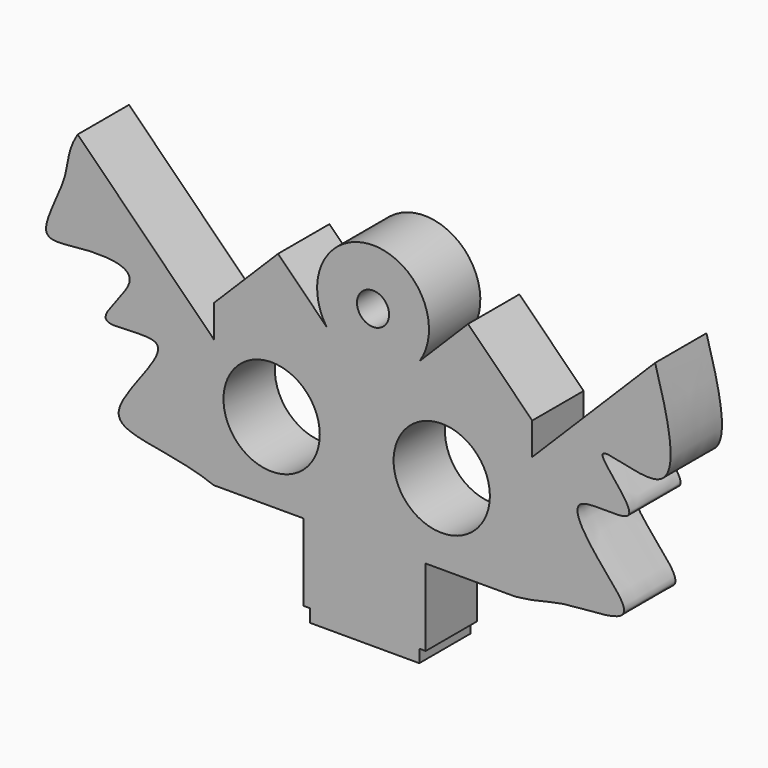
from build123d import *

# Parameters (mm, degrees)
F0_R     = 19.05
F0_R_2   = 6.35
F1_DEPTH = 25.4


with BuildPart() as f1:
    # F0 (on Front) → F1 (new body)
    with BuildSketch(Plane.XZ):
        with BuildLine():
            Line((-31.1403993189, -19.2889107381), (-18.4403993189, -19.2889107381))
            Line((-18.4403993189, -19.2889107381), (-18.4403993189, -49.7689107381))
            Line((-18.4403993189, -49.7689107381), (-15.9003993189, -49.7689107381))
            Line((-15.9003993189, -49.7689107381), (-15.9003993189, -54.8489107381))
            Line((-15.9003993189, -54.8489107381), (27.2796006811, -54.8489107381))
            Line((27.2796006811, -54.8489107381), (27.2796006811, -49.7689107381))
            Line((27.2796006811, -49.7689107381), (29.8196006811, -49.7689107381))
            Line((29.8196006811, -49.7689107381), (29.8196006811, -19.2889107381))
            Line((29.8196006811, -19.2889107381), (36.1696006811, -19.2889107381))
            Line((36.1696006811, -19.2889107381), (65.3796006811, -19.2889107381))
            add(Edge.make_bspline(
                [(65.3796006811, -19.2889107381), (74.1711477056, -18.4765076882), (82.4192640819, -14.20656882), (116.8758285004, -15.0036093337), (97.2985200049, 3.7811899612), (82.3009794217, 26.9441888583), (123.3015282631, 17.1872348013), (86.4868084349, 50.4668270695), (134.1376124005, 28.9247435809), (126.009155263, 61.4430774902), (120.6114375598, 80.1416121068)],
                knots=[0, 0, 0, 0, 0.1198813127, 0.2438537091, 0.3587527346, 0.4691736005, 0.5838440992, 0.7018104794, 0.8246059311, 0.9870158859, 0.9870158859, 0.9870158859, 0.9870158859], degree=3))
            Line((120.6114375598, 80.1416121068), (71.9809147149, 31.5110892619))
            Line((71.9809147149, 31.5110892619), (71.9809147149, 44.2110892619))
            Line((71.9809147149, 44.2110892619), (46.5809147149, 69.6110892619))
            Line((46.5809147149, 69.6110892619), (27.4656911399, 50.4958656869))
            ThreePointArc((27.4656911399, 50.4958656869), (8.990257698, 84.8214218311), (-9.4851757439, 50.4958656869))
            Line((-9.4851757439, 50.4958656869), (-28.6003993189, 69.6110892619))
            Line((-28.6003993189, 69.6110892619), (-54.0003993189, 44.2110892619))
            Line((-54.0003993189, 44.2110892619), (-54.0003993189, 31.5110892619))
            Line((-54.0003993189, 31.5110892619), (-107.8819360453, 85.3926259883))
            add(Edge.make_bspline(
                [(-107.8819360453, 85.3926259883), (-112.2818173927, 78.3663890112), (-110.085708008, 70.0693718999), (-126.8158954841, 42.1679327702), (-104.898938529, 47.4714553572), (-77.2689362901, 45.1833089905), (-109.7289109331, 17.813986501), (-59.3397233326, 30.922949596), (-110.4212413639, -16.343253291), (-72.5500955974, -12.1461893014), (-54.0003993189, -19.2889107381)],
                knots=[0, 0, 0, 0, 0.1125650032, 0.2355803588, 0.3402847219, 0.4511527294, 0.5662875782, 0.684731655, 0.8336567375, 1, 1, 1, 1], degree=3))
            Line((-54.0003993189, -19.2889107381), (-31.1403993189, -19.2889107381))
        make_face()
        with Locations((-31.1403993189, 11.9530892619)):
            Circle(F0_R, mode=Mode.SUBTRACT)
        with Locations((36.1696006811, 12.4610892619)):
            Circle(F0_R, mode=Mode.SUBTRACT)
        with BuildLine():
            ThreePointArc((-3.2003993189, 44.2110892619), (-6.6614795757, 47.0347854301), (-9.4851757439, 50.4958656869))
            Line((-9.4851757439, 50.4958656869), (-3.2003993189, 44.2110892619))
        make_face(mode=Mode.SUBTRACT)
        with BuildLine():
            Line((21.1809147149, 44.2110892619), (27.4656911399, 50.4958656869))
            ThreePointArc((27.4656911399, 50.4958656869), (24.6419949717, 47.0347854301), (21.1809147149, 44.2110892619))
        make_face(mode=Mode.SUBTRACT)
        with Locations((8.990257698, 62.6865227039)):
            Circle(F0_R_2, mode=Mode.SUBTRACT)
        with BuildLine():
            ThreePointArc((21.1809147149, 44.2110892619), (24.6419949717, 47.0347854301), (27.4656911399, 50.4958656869))
            Line((27.4656911399, 50.4958656869), (21.1809147149, 44.2110892619))
        make_face()
        with BuildLine():
            Line((-3.2003993189, 44.2110892619), (-9.4851757439, 50.4958656869))
            ThreePointArc((-9.4851757439, 50.4958656869), (-6.6614795757, 47.0347854301), (-3.2003993189, 44.2110892619))
        make_face()
    extrude(amount=F1_DEPTH)


solid = f1.part
